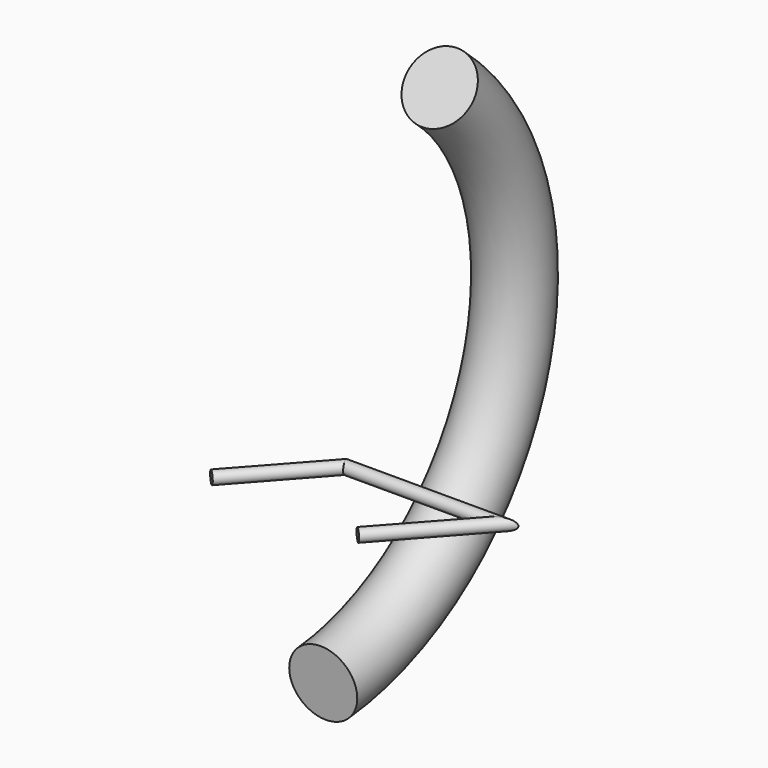
from build123d import *

# Parameters (mm, degrees)
F2_R = 4.5791581491
F6_R = 25


with BuildPart() as f3:
    # F3: sweep along a path in F0
    with BuildLine(Plane.XY) as f3_path:
        Line((-110.5412829027, 3.412168975), (-58.4959536791, 61.6119615734))
        Line((-58.4959536791, 61.6119615734), (55.0966709852, 61.6119615734))
        Line((55.0966709852, 61.6119615734), (0, 0))
    # F2 (on line) → F3 (sweep)
    with BuildSketch(Plane(origin=(-21.4006684769, -23.9313399569, 0), x_dir=(0.7454205728, -0.6665944566, 0), z_dir=(-0.6665944566, -0.7454205728, 0))):
        with Locations((-84.6742793463, 0)):
            Circle(F2_R)
    sweep(path=f3_path.line, transition=Transition.RIGHT)


with BuildPart() as f7:
    # F7: sweep along a path in F4
    with BuildLine(Plane.YZ) as f7_path:
        ThreePointArc((-31.8255573511, -83.0685347319), (135.3925406558, 52.6234982696), (75.3768756986, 259.4382464886))
    # F6 (on face) → F7 (sweep)
    with BuildSketch(Plane(origin=(0, 27.0815086351, 86.5241589145), x_dir=(1, 0, 0), z_dir=(0, 0.2987041249, 0.9543457685))):
        with Locations((0, 113.4924422574)):
            Circle(F6_R)
    sweep(path=f7_path.line)


solid = Compound([f3.part, f7.part])
